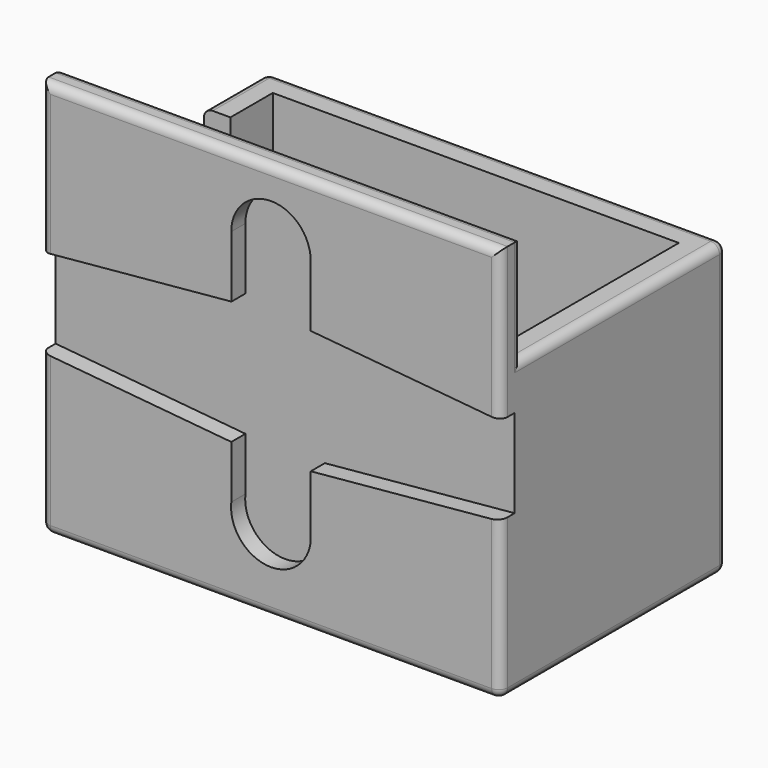
from build123d import *

# Parameters (mm, degrees)
F1_DEPTH = 15
F0_W     = 1.5
F0_H     = 7
F2_DEPTH = 1.5
F4_DEPTH = 6
F5_DEPTH = 3
F7_DEPTH = 1
F8_R     = 0.5


with BuildPart() as f1:
    # F0 (on Top) → F1 (new body)
    with BuildSketch(Plane.XY):
        Polygon((13, -8), (13, 8), (-13, 8), (-13, 3.5), (-11.5, 3.5), (-11.5, 6.5), (11.5, 6.5), (11.5, -6.5), (-11.5, -6.5), (-11.5, -3.5), (-13, -3.5), (-13, -8), align=None)
    extrude(amount=F1_DEPTH)

    # F0 (on Top) → F2 (join)
    with BuildSketch(Plane.XY):
        Polygon((-11.5, 6.5), (-11.5, 3.5), (-11.5, -3.5), (-11.5, -6.5), (11.5, -6.5), (11.5, 6.5), align=None)
        Polygon((13, -8), (13, 8), (-13, 8), (-13, 3.5), (-11.5, 3.5), (-11.5, 6.5), (11.5, 6.5), (11.5, -6.5), (-11.5, -6.5), (-11.5, -3.5), (-13, -3.5), (-13, -8), align=None)
        with Locations((-12.25, 0)):
            Rectangle(F0_W, F0_H)
    extrude(amount=-F2_DEPTH)

    # F3 (on face) → F4 (join)
    with BuildSketch(Plane.XY.offset(15)):
        Polygon((11.5, -6.5), (-11.5, -6.5), (-13, -6.5), (-13, -8), (13, -8), (13, -6.5), align=None)
    extrude(amount=F4_DEPTH)

    # F0 (on Top) → F5 (join)
    with BuildSketch(Plane.XY):
        with Locations((-12.25, 0)):
            Rectangle(F0_W, F0_H)
    extrude(amount=F5_DEPTH)

    # F6 (on face) → F7 (cut)
    with BuildSketch(Plane.XZ.offset(8)):
        with BuildLine():
            Line((-2.2407097466, 13.5), (2.25, 13.5))
            Line((2.25, 13.5), (2.25, 17))
            ThreePointArc((2.25, 17), (-0.0077226241, 19.2437825827), (-2.2515052067, 16.9860599586))
            Line((-2.2515052067, 16.9860599586), (-2.2407097466, 13.5))
        make_face()
        Polygon((13, 12.5), (2.25, 13.5), (-2.2407097466, 13.5), (-13, 12.5), (-13, 7.5), (-2.25, 6.5), (2.25, 6.5), (13, 7.5), align=None)
        with BuildLine():
            Line((2.25, 3), (2.25, 6.5))
            Line((2.25, 6.5), (-2.25, 6.5))
            Line((-2.25, 6.5), (-2.25, 3.5))
            ThreePointArc((-2.25, 3.5), (-0.25, 1), (2.25, 3))
        make_face()
    extrude(amount=-F7_DEPTH, mode=Mode.SUBTRACT)

    # F8
    f8_edges = [f1.edges().sort_by_distance(p)[0] for p in [
        (13, 0.75, 15),
        (0, 8, 15),
        (-13, 5.75, 15),
        (-13, -5, 15),
        (13, -6.5, 18),
        (0, -6.5, 21),
        (-13, -8, 3),
        (0, -8, -1.5),
        (-13, 0, -1.5),
        (13, 0, -1.5),
        (0, 8, -1.5),
        (13, 8, 6.75),
        (-13, 8, 6.75),
        (0, -8, 21),
        (-13, -8, 16.75),
        (-13, -6.5, 18),
        (13, -8, 16.75),
        (13, -8, 3),
    ]]
    fillet(f8_edges, radius=F8_R)


solid = f1.part
